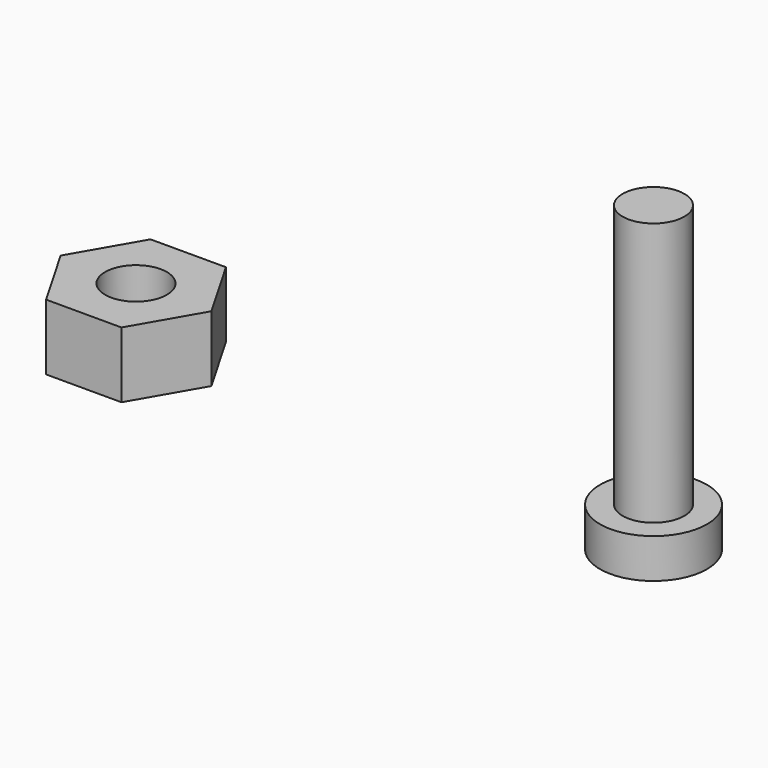
from build123d import *

# Parameters (mm, degrees)
F0_R     = 1.875
F1_DEPTH = 4
F2_R     = 3.25
F3_DEPTH = 2.4
F4_R     = 1.875
F5_DEPTH = 16


with BuildPart() as f1:
    # F0 (on Top) → F1 (new body)
    with BuildSketch(Plane.XY):
        Polygon((-12.612818, 3.965), (-17.191206, 3.965), (-19.4804, 0), (-17.191206, -3.965), (-12.612818, -3.965), (-10.323624, 0), align=None)
        with Locations((-14.902012, 0)):
            Circle(F0_R, mode=Mode.SUBTRACT)
    extrude(amount=F1_DEPTH)


with BuildPart() as f3:
    # F2 (on Top) → F3 (new body)
    with BuildSketch(Plane.XY):
        with Locations((16.527832, 0)):
            Circle(F2_R)
    extrude(amount=F3_DEPTH)

    # F4 (on face) → F5 (join)
    with BuildSketch(Plane.XY.offset(2.4)):
        with Locations((16.527832, 0)):
            Circle(F4_R)
    extrude(amount=F5_DEPTH)


solid = Compound([f1.part, f3.part])
